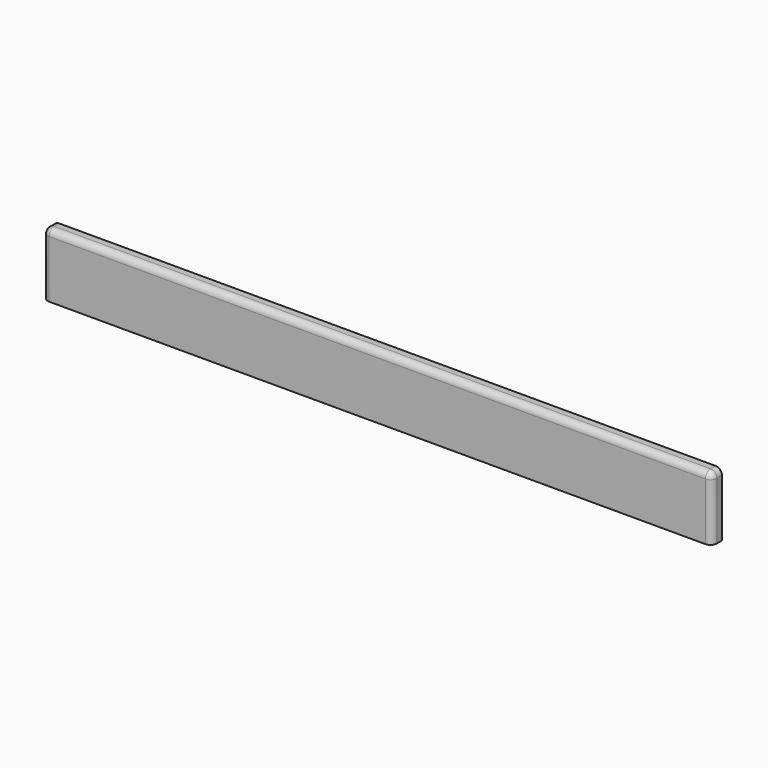
from build123d import *

# Parameters (mm, degrees)
SKETCH007_W  = 105
SKETCH007_H  = 10
PAD006_DEPTH = 2
FILLET006_R  = 1
FILLET019_R  = 1
FILLET026_R  = 1


with BuildPart() as part:
    # Sketch007 → Pad006 (new body)
    with BuildSketch(Plane.XZ):
        with Locations((0, 5)):
            Rectangle(SKETCH007_W, SKETCH007_H)
    extrude(amount=PAD006_DEPTH)

    # Fillet006
    fillet006_edges = [part.edges().sort_by_distance(p)[0] for p in [
        (52.5, -2, 5),
    ]]
    fillet(fillet006_edges, radius=FILLET006_R)

    # Fillet019
    fillet019_edges = [part.edges().sort_by_distance(p)[0] for p in [
        (-52.5, -2, 5),
    ]]
    fillet(fillet019_edges, radius=FILLET019_R)

    # Fillet026
    fillet026_edges = [part.edges().sort_by_distance(p)[0] for p in [
        (0, -2, 10),
    ]]
    fillet(fillet026_edges, radius=FILLET026_R)


with BuildPart() as part_1:
    # Body006 placement: moved
    add(part.part.moved(Location((0, -30.5, 36))))


solid = part_1.part
